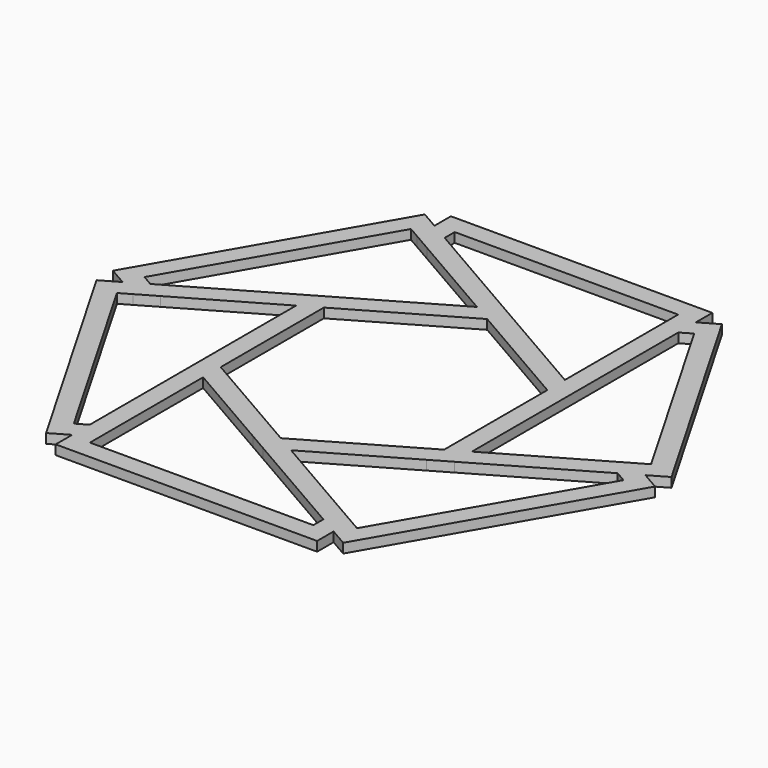
from build123d import *

# Parameters (mm, degrees)
F1_DEPTH = 2


with BuildPart() as f1:
    # F0 (on Top) → F1 (new body)
    with BuildSketch(Plane.XY):
        Polygon((-23.5, 13.567731326), (-27.5, 11.2583302492), (-27.5, -11.2583302492), (-23.5, -13.567731326), align=None)
        Polygon((-23.5, -13.567731326), (-27.5, -11.2583302492), (-27.5, -15.8771324027), (-23.5, -18.1865334795), align=None)
        Polygon((0, -27.1354626519), (-23.5, -13.567731326), (-23.5, -18.1865334795), (-4, -29.4448637287), align=None)
        Polygon((-23.5, -18.1865334795), (-27.5, -15.8771324027), (-27.5, -43.0125950546), (-23.5, -40.7031939779), align=None)
        Polygon((-23.5, -40.7031939779), (-27.5, -43.0125950546), (-27.5, -47.6313972081), (-23.5, -45.3219961314), align=None)
        Polygon((-51, -2.3094010768), (-55, 0), (-58.75, -2.1650635095), (-31.25, -49.7964607176), (-27.5, -47.6313972081), (-27.5, -43.0125950546), (-29.7858983849, -44.3323591025), (-53.2858983849, -3.6291651246), align=None)
        Polygon((-23.5, -45.3219961314), (-27.5, -47.6313972081), (-27.5, -51.9615242271), (27.5, -51.9615242271), (27.5, -47.6313972081), (23.5, -45.3219961314), (23.5, -47.9615242271), (-23.5, -47.9615242271), align=None)
        Polygon((23.5, -40.7031939779), (4, -29.4448637287), (0, -31.7542648054), (23.5, -45.3219961314), align=None)
        Polygon((27.5, -47.6313972081), (27.5, -43.0125950546), (23.5, -40.7031939779), (23.5, -45.3219961314), align=None)
        Polygon((4, -29.4448637287), (0, -27.1354626519), (-4, -29.4448637287), (0, -31.7542648054), align=None)
        Polygon((23.5, -18.1865334795), (23.5, -13.567731326), (0, -27.1354626519), (4, -29.4448637287), align=None)
        Polygon((27.5, -15.8771324027), (27.5, -11.2583302492), (23.5, -13.567731326), (23.5, -18.1865334795), align=None)
        Polygon((58.75, -2.1650635095), (55, 0), (51, -2.3094010768), (53.2858983849, -3.6291651246), (29.7858983849, -44.3323591025), (27.5, -43.0125950546), (27.5, -47.6313972081), (31.25, -49.7964607176), align=None)
        Polygon((47, 0), (27.5, -11.2583302492), (27.5, -15.8771324027), (51, -2.3094010768), align=None)
        Polygon((-47, 0), (-51, 2.3094010768), (-55, 0), (-51, -2.3094010768), align=None)
        Polygon((-27.5, 11.2583302492), (-27.5, 15.8771324027), (-51, 2.3094010768), (-47, 0), align=None)
        Polygon((-27.5, 43.0125950546), (-27.5, 47.6313972081), (-31.25, 49.7964607176), (-58.75, 2.1650635095), (-55, 0), (-51, 2.3094010768), (-53.2858983849, 3.6291651246), (-29.7858983849, 44.3323591025), align=None)
        Polygon((-4, 29.4448637287), (-23.5, 18.1865334795), (-23.5, 13.567731326), (0, 27.1354626519), align=None)
        Polygon((-23.5, 18.1865334795), (-27.5, 15.8771324027), (-27.5, 11.2583302492), (-23.5, 13.567731326), align=None)
        Polygon((0, 31.7542648054), (-23.5, 45.3219961314), (-23.5, 40.7031939779), (-4, 29.4448637287), align=None)
        Polygon((-23.5, 45.3219961314), (-27.5, 47.6313972081), (-27.5, 43.0125950546), (-23.5, 40.7031939779), align=None)
        Polygon((27.5, 51.9615242271), (-27.5, 51.9615242271), (-27.5, 47.6313972081), (-23.5, 45.3219961314), (-23.5, 47.9615242271), (23.5, 47.9615242271), (23.5, 45.3219961314), (27.5, 47.6313972081), align=None)
        Polygon((4, 29.4448637287), (0, 31.7542648054), (-4, 29.4448637287), (0, 27.1354626519), align=None)
        Polygon((23.5, 18.1865334795), (4, 29.4448637287), (0, 27.1354626519), (23.5, 13.567731326), align=None)
        Polygon((27.5, 15.8771324027), (27.5, 43.0125950546), (23.5, 40.7031939779), (23.5, 18.1865334795), align=None)
        Polygon((27.5, 43.0125950546), (27.5, 47.6313972081), (23.5, 45.3219961314), (23.5, 40.7031939779), align=None)
        Polygon((31.25, 49.7964607176), (27.5, 47.6313972081), (27.5, 43.0125950546), (29.7858983849, 44.3323591025), (53.2858983849, 3.6291651246), (51, 2.3094010768), (55, 0), (58.75, 2.1650635095), align=None)
        Polygon((27.5, 11.2583302492), (27.5, 15.8771324027), (23.5, 18.1865334795), (23.5, 13.567731326), align=None)
        Polygon((27.5, -11.2583302492), (27.5, 11.2583302492), (23.5, 13.567731326), (23.5, -13.567731326), align=None)
        Polygon((55, 0), (51, 2.3094010768), (47, 0), (51, -2.3094010768), align=None)
    extrude(amount=F1_DEPTH)


solid = f1.part
